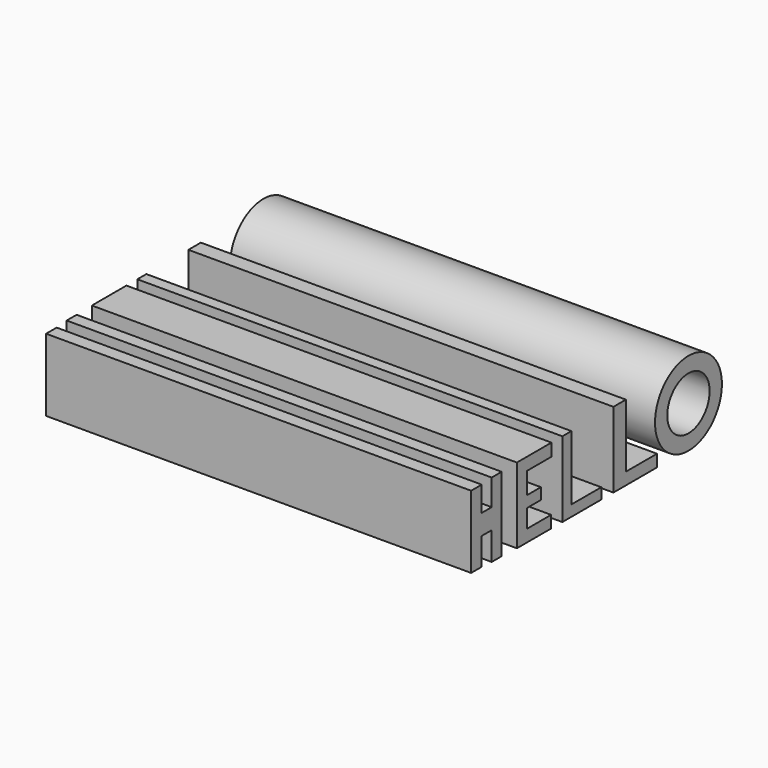
from build123d import *

# Parameters (mm, degrees)
F0_R     = 24.995283
F0_R_2   = 15.822775
F1_DEPTH = 254


with BuildPart() as f1:
    # F0 (on Right) → F1 (new body)
    with BuildSketch(Plane.YZ):
        Polygon((-86.638734, 31.28298), (-86.638734, -11.978242), (-78.730769, -11.978242), (-78.730769, 4.302863), (-71.287982, 4.302863), (-71.287982, -12.443416), (-63.845187, -12.443416), (-63.845187, 31.980742), (-71.287982, 31.980742), (-71.287982, 16.397398), (-78.730769, 16.397398), (-78.730769, 31.28298), align=None)
        Polygon((-45.005627, 32.21333), (-52.448418, 32.21333), (-52.448418, -12.90859), (-45.005627, -12.90859), (-26.863825, -12.90859), (-26.863825, -5.698387), (-45.005627, -5.698387), (-45.005627, 5.233212), (-34.5392, 5.233212), (-34.5392, 11.978242), (-45.005627, 11.978242), (-45.005627, 24.770537), (-26.631236, 24.770537), (-26.631236, 32.21333), align=None)
        Polygon((-11.745653, 32.21333), (-18.490683, 32.21333), (-18.490683, -12.90859), (-11.745653, -12.90859), (10.582718, -12.90859), (10.582718, -6.396148), (-11.745653, -6.396148), align=None)
        Polygon((28.957108, 32.21333), (19.65362, 32.21333), (19.65362, -12.90859), (28.957108, -12.90859), (52.215829, -12.90859), (52.215829, -5.698387), (28.957108, -5.698387), align=None)
        with Locations((75.70713, 11.280479)):
            Circle(F0_R)
        with Locations((75.70713, 11.280479)):
            Circle(F0_R_2, mode=Mode.SUBTRACT)
    extrude(amount=F1_DEPTH)


solid = f1.part
